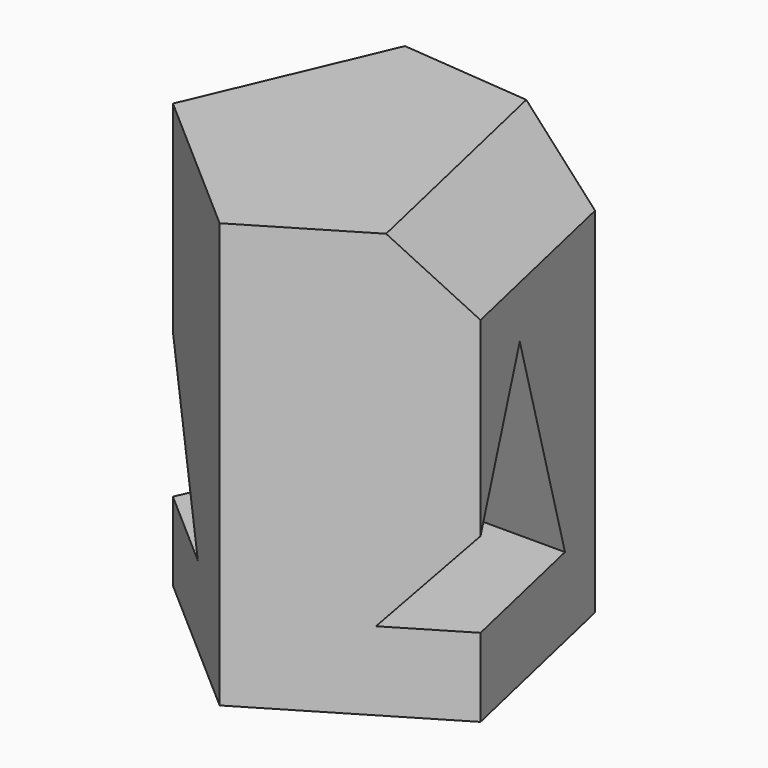
from build123d import *

# Parameters (mm, degrees)
F1_DEPTH      = 30
F3_DEPTH      = 12.0510542326
F3_DEPTH_BACK = 11.3682544958
F4_SIZE       = 5


with BuildPart() as f1:
    # F0 (on Top) → F1 (new body)
    with BuildSketch(Plane.XY):
        Polygon((-1.1047931817, -12.3112077606), (11.3672544958, -4.8550931739), (8.1301428189, 9.3105951606), (-6.3425499004, 10.6093574387), (-12.0500542326, -2.7536516647), align=None)
    extrude(amount=F1_DEPTH)

    # F2 (on Right) → F3 (cut, two sides)
    with BuildSketch(Plane.YZ) as f3_sk:
        Polygon((0, 21.3343687356), (-7.8424783424, 5.5425534956), (5.5912830867, 5.5425534956), align=None)
    extrude(amount=-F3_DEPTH, mode=Mode.SUBTRACT)
    extrude(f3_sk.sketch, amount=F3_DEPTH_BACK, mode=Mode.SUBTRACT)

    # F4
    f4_edges = [f1.edges().sort_by_distance(p)[0] for p in [
        (9.748699, 2.227751, 30),
    ]]
    chamfer(f4_edges, length=F4_SIZE)


solid = f1.part
